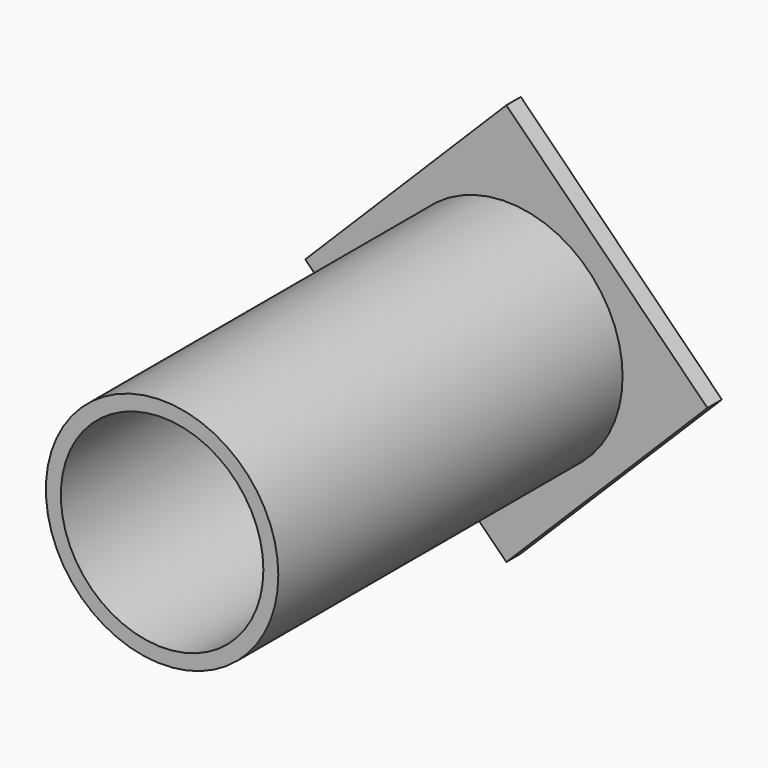
from build123d import *

# Parameters (mm, degrees)
F2_DEPTH = 2.286
F1_R     = 14.68178
F3_DEPTH = 54.356
F4_R     = 12.792611
F5_DEPTH = 76.2


with BuildPart() as f2:
    # F0 (on Front) → F2 (new body)
    with BuildSketch(Plane.XZ):
        Polygon((0, 25.4), (-25.4, 0), (0, -25.4), (25.4, 0), align=None)
    extrude(amount=-F2_DEPTH)

    # F1 (on Front) → F3 (join)
    with BuildSketch(Plane.XZ):
        Circle(F1_R)
    extrude(amount=F3_DEPTH)

    # F4 (on face) → F5 (cut)
    with BuildSketch(Plane.XZ.offset(54.356)):
        Circle(F4_R)
    extrude(amount=-F5_DEPTH, mode=Mode.SUBTRACT)


solid = f2.part
